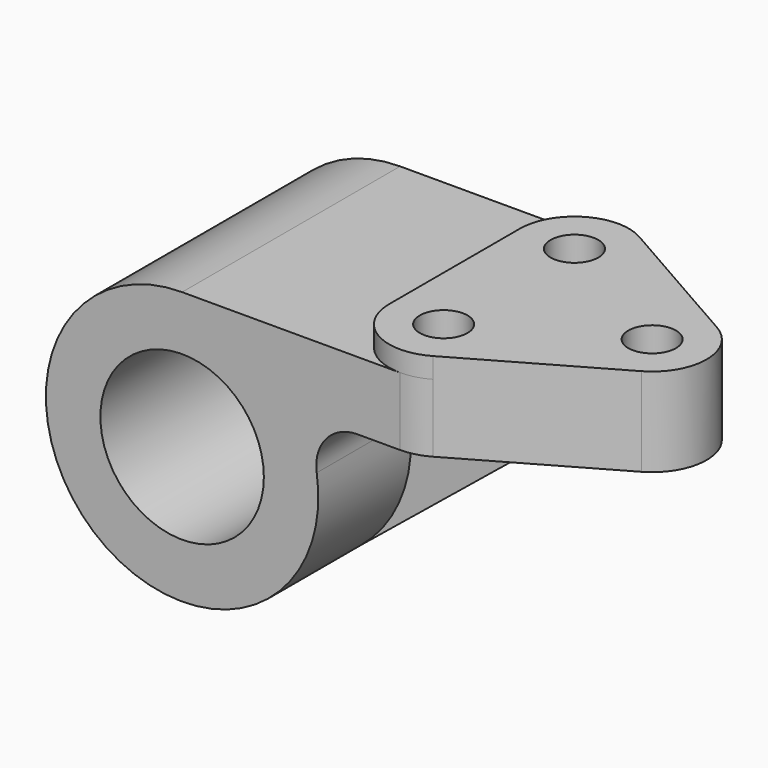
from build123d import *

# Parameters (mm, degrees)
F0_R      = 31.75
F0_R_2    = 19.05
F1_DEPTH  = 63.5
F4_DEPTH  = 15.875
F5_DEPTH  = 63.501
F7_DEPTH  = 63.5
F9_DEPTH  = 4.7752
F10_R     = 5.5626
F11_DEPTH = 25.4
F14_DEPTH = 4.7625


with BuildPart() as f1:
    # F0 (on Front) → F1 (new body)
    with BuildSketch(Plane.XZ):
        Circle(F0_R)
        Circle(F0_R_2, mode=Mode.SUBTRACT)
    extrude(amount=F1_DEPTH)

    # F3 (on offset) → F4 (join)
    with BuildSketch(Plane.XY.offset(31.75)):
        with BuildLine():
            Line((50.8, 0), (0, 0))
            Line((0, 0), (0, -63.5))
            Line((0, -63.5), (50.8, -63.5))
            ThreePointArc((50.8, -63.5), (54.058676, -63.074813), (57.099155, -61.827721))
            Line((57.099155, -61.827721), (90.449355, -42.777721))
            ThreePointArc((90.449355, -42.777721), (96.8502, -31.75), (90.449355, -20.722279))
            Line((90.449355, -20.722279), (57.099155, -1.672279))
            ThreePointArc((57.099155, -1.672279), (54.058676, -0.425187), (50.8, 0))
        make_face()
    extrude(amount=-F4_DEPTH)

    # F0 (on Front) → F5 (cut, through all)
    with BuildSketch(Plane.XZ):
        Circle(F0_R_2)
    extrude(amount=F5_DEPTH, mode=Mode.SUBTRACT)

    # F6 (on face) → F7 (join)
    with BuildSketch(Plane.XZ.offset(63.5)):
        with BuildLine():
            ThreePointArc((31.37201, 4.884615), (33.548857, 12.545476), (40.783613, 15.875))
            Line((40.783613, 15.875), (27.496307, 15.875))
            Line((27.496307, 15.875), (31.37201, 4.884615))
        make_face()
    extrude(amount=-F7_DEPTH)

    # F8 (on face) → F9 (join)
    with BuildSketch(Plane.XY.offset(31.75)):
        with BuildLine():
            ThreePointArc((57.099155, -1.672279), (44.424628, -1.716165), (38.1, -12.7))
            Line((38.1, -12.7), (38.1, -50.8))
            ThreePointArc((38.1, -50.8), (44.424628, -61.783835), (57.099155, -61.827721))
            Line((57.099155, -61.827721), (90.449355, -42.777721))
            ThreePointArc((90.449355, -42.777721), (96.8502, -31.75), (90.449355, -20.722279))
            Line((90.449355, -20.722279), (57.099155, -1.672279))
        make_face()
    extrude(amount=F9_DEPTH)

    # F10 (on face) → F11 (cut)
    with BuildSketch(Plane.XY.offset(36.5252)):
        with Locations((50.8, -12.7)):
            Circle(F10_R)
        with Locations((50.8, -50.8)):
            Circle(F10_R)
        with Locations((84.1502, -31.75)):
            Circle(F10_R)
    extrude(amount=-F11_DEPTH, mode=Mode.SUBTRACT)

    # F13 (on offset) → F14 (join, symmetric)
    with BuildSketch(Plane.XZ.offset(31.75)):
        Polygon((30.923827, 15.875), (17.758443, -26.481606), (69.85, 15.875), align=None)
    extrude(amount=F14_DEPTH, both=True)


solid = f1.part
